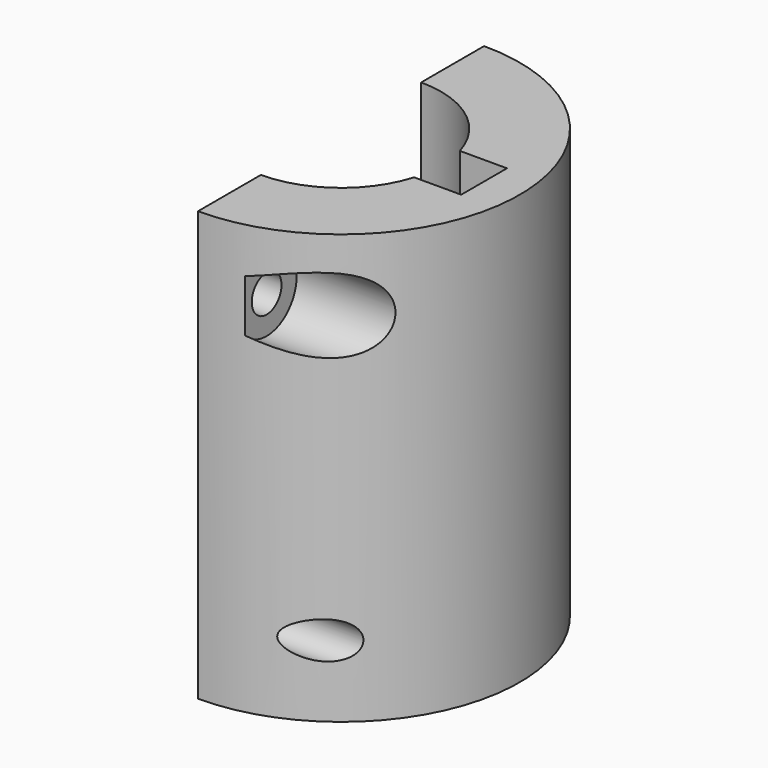
from build123d import *

# Parameters (mm, degrees)
F1_DEPTH = 60
F2_R     = 2.6
F3_DEPTH = 25.001
F6_DEPTH = 25
F7_W     = 8
F7_H     = 8
F8_DEPTH = 60.0010001


with BuildPart() as f1:
    # F0 (on Top) → F1 (new body)
    with BuildSketch(Plane.XY):
        with BuildLine():
            Line((0, -14), (0, -25))
            ThreePointArc((0, -25), (25, 0), (0, 25))
            Line((0, 25), (0, 14))
            ThreePointArc((0, 14), (14, 0), (0, -14))
        make_face()
    extrude(amount=F1_DEPTH)

    # F2 (on Right) → F3 (cut, through all)
    with BuildSketch(Plane.YZ):
        with Locations((-20.5, 10)):
            Circle(F2_R)
        with Locations((-20.5, 50)):
            Circle(F2_R)
        with Locations((20.5, 50)):
            Circle(F2_R)
        with Locations((20.5, 10)):
            Circle(F2_R)
    extrude(amount=F3_DEPTH, mode=Mode.SUBTRACT)

    # F5 (on offset) → F6 (cut)
    with BuildSketch(Plane(origin=(6, 0, 0), x_dir=(0, -1, 0), z_dir=(-1, 0, 0))):
        with BuildLine():
            ThreePointArc((15.25, 50), (20.5, 44.75), (25.75, 50))
            ThreePointArc((25.75, 50), (20.5, 55.25), (15.25, 50))
        make_face()
        with BuildLine():
            ThreePointArc((-15.25, 10), (-16.7876893988, 13.7123106012), (-20.5, 15.25))
            ThreePointArc((-20.5, 15.25), (-24.2123106012, 6.2876893988), (-15.25, 10))
        make_face()
    extrude(amount=-F6_DEPTH, mode=Mode.SUBTRACT)

    # F7 (on Top) → F8 (cut, through all)
    with BuildSketch(Plane.XY):
        with Locations((16, 0)):
            Rectangle(F7_W, F7_H)
    extrude(amount=F8_DEPTH, mode=Mode.SUBTRACT)


solid = f1.part
